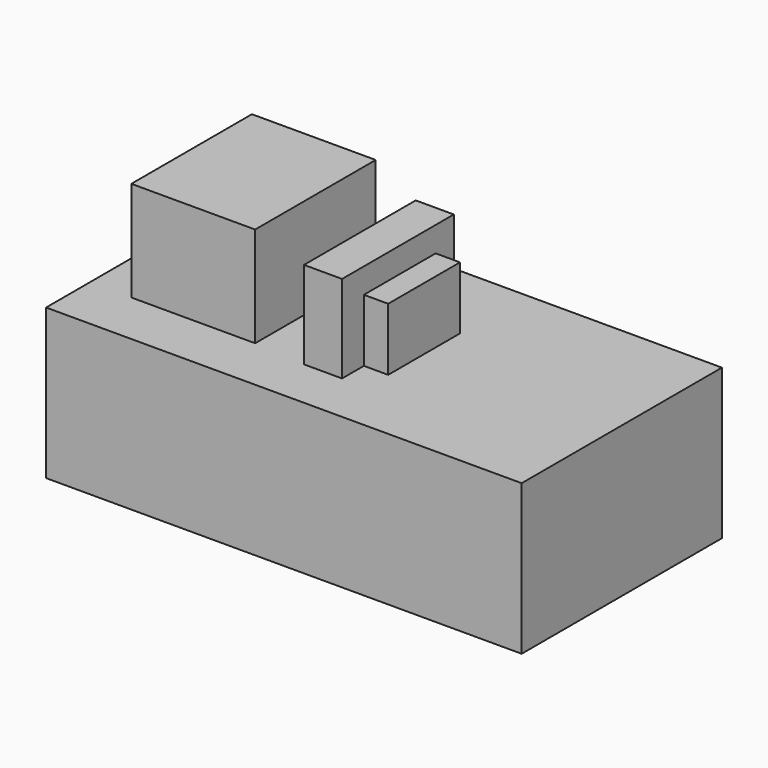
from build123d import *

# Parameters (mm, degrees)
F0_W     = 241.3
F0_H     = 76.2
F1_DEPTH = 127
F2_W     = 62.8207884729
F2_H     = 76.4612257481
F3_DEPTH = 50.8
F4_W     = 19.3203594536
F4_H     = 70.8669982851
F5_DEPTH = 44.45
F6_W     = 10.7880616561
F6_H     = 45.5669872463
F6_W_2   = 12.3340738937
F6_H_2   = 45.5182045698
F7_DEPTH = 31.75
F8_R     = 9.525
F9_DEPTH = 77.978


with BuildPart() as f1:
    # F0 (on Front) → F1 (new body)
    with BuildSketch(Plane.XZ):
        Rectangle(F0_W, F0_H)
    extrude(amount=-F1_DEPTH)

    # F2 (on face) → F3 (join)
    with BuildSketch(Plane.XY.offset(38.1)):
        with Locations((-68.2148206979, 66.0216137767)):
            Rectangle(F2_W, F2_H)
    extrude(amount=F3_DEPTH)

    # F4 (on face) → F5 (join)
    with BuildSketch(Plane.XY.offset(38.1)):
        with Locations((-0.7133577019, 61.1537639052)):
            Rectangle(F4_W, F4_H)
    extrude(amount=F5_DEPTH)

    # F6 (on face) → F7 (join)
    with BuildSketch(Plane.XY.offset(38.1)):
        with Locations((-15.7675682567, 62.2907597572)):
            Rectangle(F6_W, F6_H)
        with Locations((15.1138589717, 62.3151510954)):
            Rectangle(F6_W_2, F6_H_2)
    extrude(amount=F7_DEPTH)

    # F8 (on face) → F9 (join)
    with BuildSketch(Plane(origin=(0, 127, 0), x_dir=(-1, 0, 0), z_dir=(0, 1, 0))):
        with Locations((87.699372661, 0)):
            Circle(F8_R)
    extrude(amount=F9_DEPTH)


solid = f1.part
